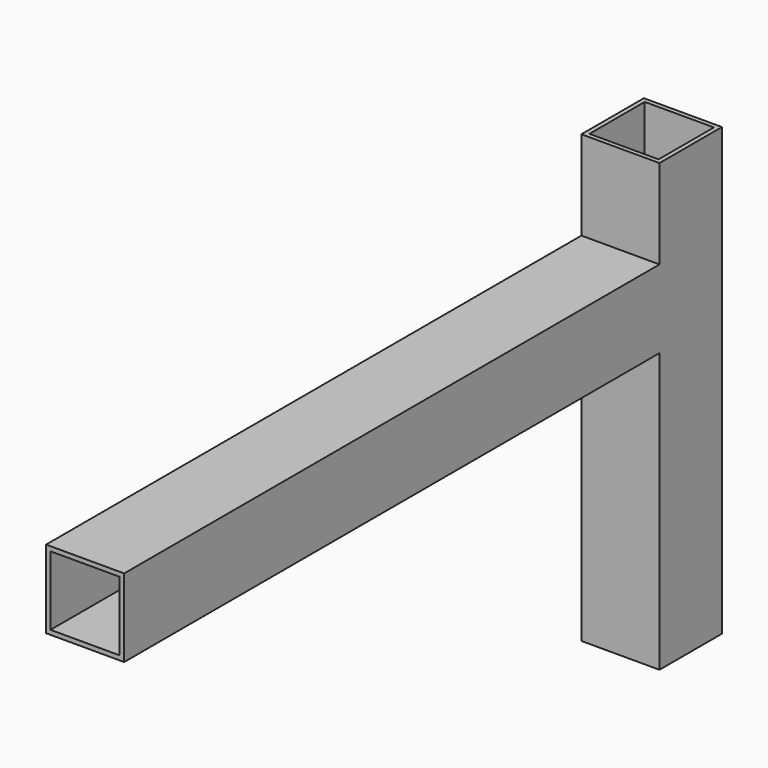
from build123d import *

# Parameters (mm, degrees)
F0_W     = 300
F0_H     = 35
F1_DEPTH = 35
F2_T     = -2


with BuildPart() as f1:
    # F0 (on Right) → F1 (new body)
    with BuildSketch(Plane.YZ):
        with Locations((150, -17.5)):
            Rectangle(F0_W, F0_H)
        Polygon((300, 40), (300, 0), (300, -35), (300, -160), (335, -160), (335, 40), align=None)
    extrude(amount=F1_DEPTH)

    # F2
    f2_openings = [f1.faces().sort_by_distance(p)[0] for p in [
        (17.5, 317.5, 40),
        (17.5, 0, -17.5),
        (17.5, 317.5, -160),
    ]]
    offset(amount=F2_T, openings=f2_openings, kind=Kind.INTERSECTION)


solid = f1.part
